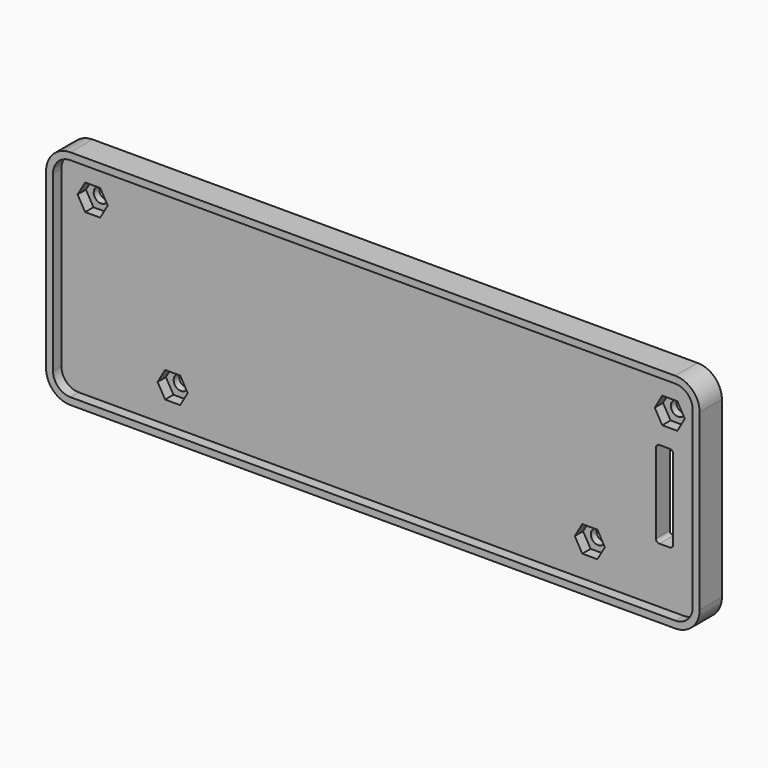
from build123d import *

# Parameters (mm, degrees)
F1_DEPTH  = 8
F3_DEPTH  = 3
F7_DEPTH  = 3
F8_R      = 2.1
F9_DEPTH  = 5
F13_DEPTH = 25


with BuildPart() as f1:
    # F0 (on Front) → F1 (new body)
    with BuildSketch(Plane.XZ):
        with BuildLine():
            Line((-87, -32), (87, -32))
            ThreePointArc((87, -32), (91.949747, -29.949747), (94, -25))
            Line((94, -25), (94, 25))
            ThreePointArc((94, 25), (91.949747, 29.949747), (87, 32))
            Line((87, 32), (-87, 32))
            ThreePointArc((-87, 32), (-91.949747, 29.949747), (-94, 25))
            Line((-94, 25), (-94, -25))
            ThreePointArc((-94, -25), (-91.949747, -29.949747), (-87, -32))
        make_face()
    extrude(amount=F1_DEPTH)

    # F2 (on face) → F3 (cut)
    with BuildSketch(Plane.XZ.offset(8)):
        with BuildLine():
            Line((87, 30), (-87, 30))
            ThreePointArc((-87, 30), (-90.535534, 28.535534), (-92, 25))
            Line((-92, 25), (-92, -25))
            ThreePointArc((-92, -25), (-90.535534, -28.535534), (-87, -30))
            Line((-87, -30), (87, -30))
            ThreePointArc((87, -30), (90.535534, -28.535534), (92, -25))
            Line((92, -25), (92, 25))
            ThreePointArc((92, 25), (90.535534, 28.535534), (87, 30))
        make_face()
    extrude(amount=-F3_DEPTH, mode=Mode.SUBTRACT)

    # F6 (on face) → F7 (cut)
    with BuildSketch(Plane.XZ.offset(5)):
        Polygon((55.669873, -20), (57.834936, -23.75), (62.165064, -23.75), (64.330127, -20), (62.165064, -16.25), (57.834936, -16.25), align=None)
        Polygon((78.669873, 20), (80.834936, 16.25), (85.165064, 16.25), (87.330127, 20), (85.165064, 23.75), (80.834936, 23.75), align=None)
        Polygon((-64.330127, -20), (-62.165064, -23.75), (-57.834936, -23.75), (-55.669873, -20), (-57.834936, -16.25), (-62.165064, -16.25), align=None)
        Polygon((-87.330127, 20), (-85.165064, 16.25), (-80.834936, 16.25), (-78.669873, 20), (-80.834936, 23.75), (-85.165064, 23.75), align=None)
    extrude(amount=-F7_DEPTH, mode=Mode.SUBTRACT)

    # F8 (on face) → F9 (cut, through all)
    with BuildSketch(Plane.XZ.offset(5)):
        with Locations((-83, 20)):
            Circle(F8_R)
        with Locations((-60, -20)):
            Circle(F8_R)
        with Locations((83, 20)):
            Circle(F8_R)
        with Locations((60, -20)):
            Circle(F8_R)
    extrude(amount=-F9_DEPTH, mode=Mode.SUBTRACT)

    # F12 (on face) → F13 (cut)
    with BuildSketch(Plane.XZ.offset(5)):
        with BuildLine():
            ThreePointArc((79, -13), (79.292893, -13.707107), (80, -14))
            Line((80, -14), (83, -14))
            ThreePointArc((83, -14), (83.707107, -13.707107), (84, -13))
            Line((84, -13), (84, 10))
            ThreePointArc((84, 10), (83.707107, 10.707107), (83, 11))
            Line((83, 11), (80, 11))
            ThreePointArc((80, 11), (79.292893, 10.707107), (79, 10))
            Line((79, 10), (79, -13))
        make_face()
    extrude(amount=-F13_DEPTH, mode=Mode.SUBTRACT)


solid = f1.part
